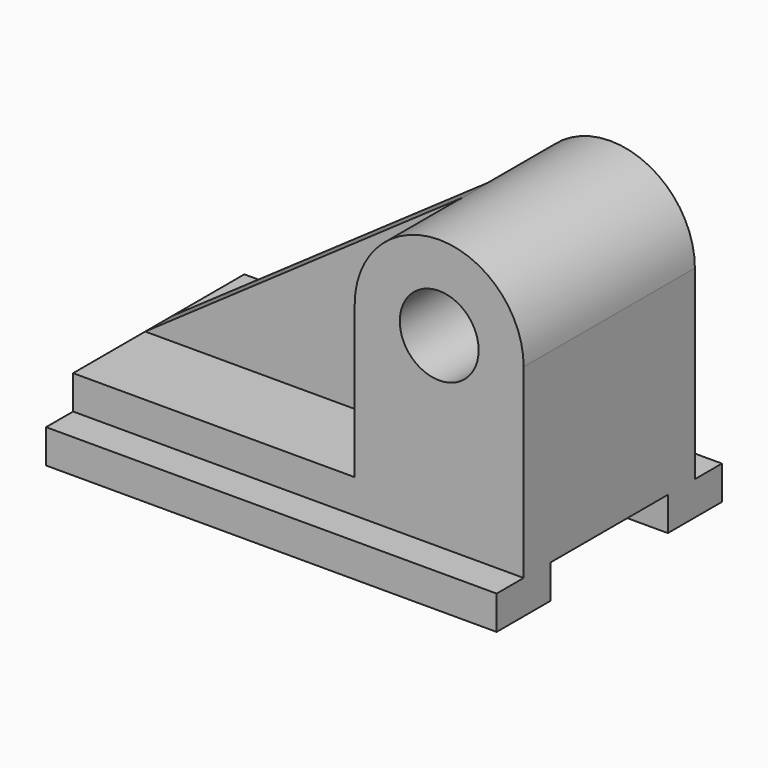
from build123d import *

# Parameters (mm, degrees)
F1_DEPTH = 40
F3_R     = 3.5
F4_DEPTH = 9.5
F5_DEPTH = 1.5


with BuildPart() as f1:
    # F0 (on Right) → F1 (new body)
    with BuildSketch(Plane.YZ):
        Polygon((-6.5, 0), (0, 0), (0, 3), (-9.5, 3), (-9.5, 0), (-12.5, 0), (-12.5, -3), (-6.5, -3), align=None)
    extrude(amount=F1_DEPTH)

    # F2: F1 across plane


with BuildPart() as f1_1:
    add(f1.part)
    add(f1.part.mirror(Plane.XZ))

    # F3 (on Front) → F4 (join, symmetric)
    with BuildSketch(Plane.XZ):
        with BuildLine():
            Line((25, 3), (40, 3))
            Line((40, 3), (40, 16.5))
            ThreePointArc((40, 16.5), (35.971113, 23.148412), (28.212967, 22.65397))
            ThreePointArc((28.212967, 22.65397), (25.851588, 19.971113), (25, 16.5))
            Line((25, 16.5), (25, 3))
        make_face()
        with Locations((32.5, 16.5)):
            Circle(F3_R, mode=Mode.SUBTRACT)
    extrude(amount=F4_DEPTH, both=True)

    # F3 (on Front) → F5 (join, symmetric)
    with BuildSketch(Plane.XZ):
        with BuildLine():
            Line((0, 3), (25, 3))
            Line((25, 3), (25, 16.5))
            ThreePointArc((25, 16.5), (25.851588, 19.971113), (28.212967, 22.65397))
            Line((28.212967, 22.65397), (0, 3))
        make_face()
    extrude(amount=F5_DEPTH, both=True)


solid = f1_1.part
